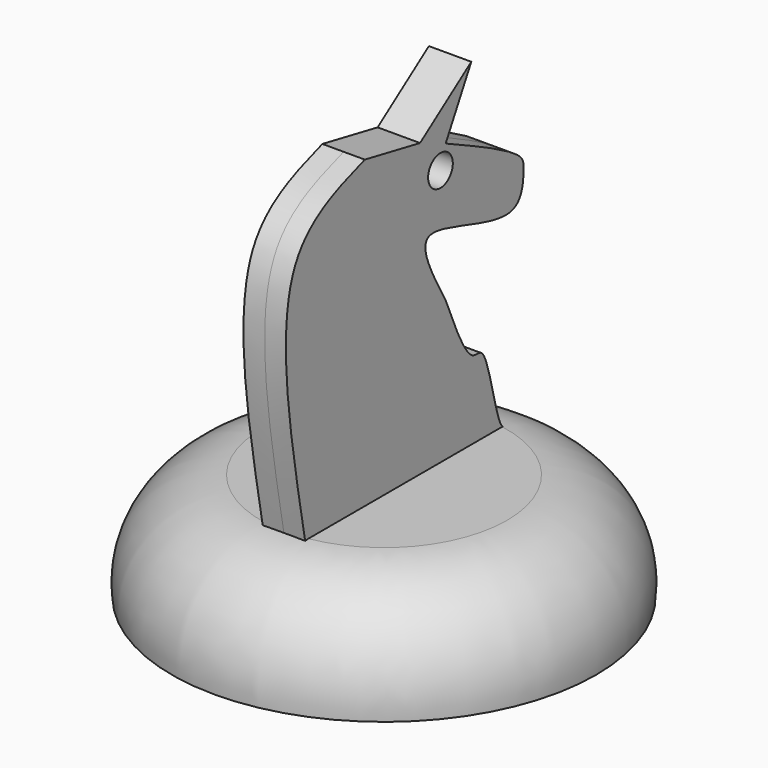
from build123d import *

# Parameters (mm, degrees)
F3_DEPTH = 2.5
F4_R     = 1.8196916791
F5_DEPTH = 12.5


with BuildPart() as f1:
    # F0 (on Front) → F1 (revolve)
    with BuildSketch(Plane.XZ):
        with BuildLine():
            Line((0, 12.6119172201), (0, 0))
            Line((0, 0), (25, 0))
            ThreePointArc((25, 0), (22.4952746146, 8.5923260716), (14.4987376407, 12.6119172201))
            Line((14.4987376407, 12.6119172201), (0, 12.6119172201))
        make_face()
    revolve(axis=Axis((0, 0, 6.4052655362), (0, 0, 1)))

    # F2 (on Right) → F3 (join, symmetric)
    with BuildSketch(Plane.YZ):
        with BuildLine():
            Line((2.1847422576, 46.9719432423), (-5.9583863368, 48.5608466098))
            add(Edge.make_bspline(
                [(-5.9583863368, 48.5608466098), (-10.0494005511, 47.1754783535), (-20.5400337185, 43.6229630605), (-16.933797457, 24.3011579967), (-14.7338788979, 12.5142439035)],
                knots=[0, 0, 0, 0, 0.3899682781, 1, 1, 1, 1], degree=3))
            Line((-14.7338788979, 12.5142439035), (14.3563159969, 12.5142439035))
            Line((14.3563159969, 12.5142439035), (14.5549291134, 12.5142439035))
            add(Edge.make_bspline(
                [(5.9583861939, 29.1159117124), (7.3715471144, 25.6909691113), (9.3716990081, 20.8433924381), (12.1028325627, 22.5996535769), (13.4960797579, 12.6119545714), (14.5689436565, 12.5194712617), (14.5549291134, 12.5142439035)],
                knots=[0, 0, 0, 0, 0.3508050155, 0.4965204434, 0.8596904558, 0.9459946347, 0.9459946347, 0.9459946347, 0.9459946347], degree=3))
            add(Edge.make_bspline(
                [(5.9583861939, 45.3830437264), (10.7803563989, 43.1370729353), (17.3665075442, 40.0693841839), (17.482964474, 38.1086396633), (17.1146182218, 31.5098055074), (-0.5193064524, 40.5736312242), (3.9619187914, 32.6472561057), (5.9583861939, 29.1159117124)],
                knots=[0, 0, 0, 0, 0.2683818231, 0.3665728282, 0.5161710799, 0.7844454132, 1, 1, 1, 1], degree=3))
            Line((5.9583861939, 45.3830437264), (9.7320311578, 52.3344949017))
            Line((9.7320311578, 52.3344949017), (2.1847422576, 46.9719432423))
        make_face()
    extrude(amount=F3_DEPTH, both=True)

    # F4 (on face) → F5 (cut, symmetric)
    with BuildSketch(Plane(origin=(-2.5, 0, 0), x_dir=(0, -1, 0), z_dir=(-1, 0, 0))):
        with Locations((-5.1921997219, 42.9001860321)):
            Circle(F4_R)
    extrude(amount=F5_DEPTH, both=True, mode=Mode.SUBTRACT)


solid = f1.part
